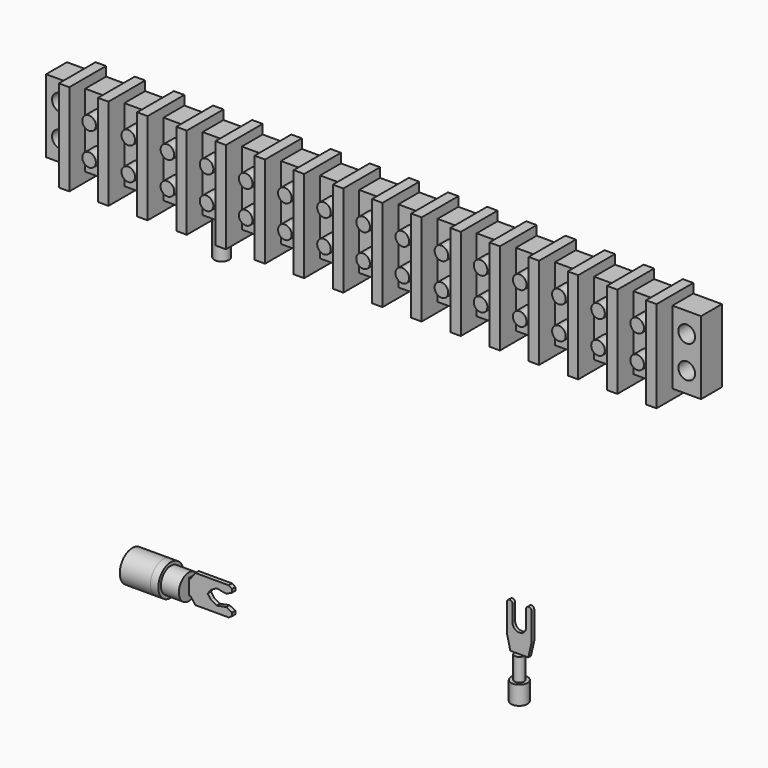
from build123d import *

# Parameters (mm, degrees)
F2_DEPTH      = 1.016
F3_R          = 3.0708545833
F4_DEPTH      = 6.2992
F5_R          = 3.8366124345
F6_DEPTH      = 1.905
F6_DEPTH_BACK = 7.4676
F0_W          = 6.9684078468
F0_H          = 17.78
F0_R          = 2.032
F0_W_2        = 6.9824227593
F7_DEPTH      = 6.35
F8_DEPTH      = 11.176
F10_DEPTH     = 0.8128
F11_R         = 1.1557
F12_DEPTH     = 5.5118
F13_R         = 2.0066
F14_DEPTH     = 4.5212
F15_R         = 1.651
F16_DEPTH     = 3.175
F17_R         = 0.9525
F18_DEPTH     = 11.938
F19_R         = 2.159
F20_DEPTH     = 10.922
F21_R         = 0.889
F22_DEPTH     = 6.604
F23_R         = 1.7907
F24_DEPTH     = 13.9446


with BuildPart() as f2:
    # F1 (on Front) → F2 (new body)
    with BuildSketch(Plane.XZ):
        Polygon((-4.9059162848, -72.9100778699), (-11.6111291572, -72.9100778699), (-11.6111291572, -76.6700133681), (-4.9059162848, -76.6700133681), (-3.7779365666, -78.2366544008), (4.3685836717, -78.2366544008), (5.162417423, -77.7229978188), (5.162417423, -76.9071877003), (3.7609902211, -76.2163475156), (1.4121197164, -76.6505897045), (0, -75.8215785027), (-0.769990962, -74.790045619), (0, -73.7585127354), (1.4121197164, -72.9295015335), (3.7609902211, -73.3637437224), (5.162417423, -72.6729035378), (5.162417423, -71.8570934192), (4.3685836717, -71.3434368372), (-3.7779365666, -71.3434368372), align=None)
    extrude(amount=F2_DEPTH)

    # F3 (on face) → F4 (join)
    with BuildSketch(Plane(origin=(-11.6111291572, 0, 0), x_dir=(0, -1, 0), z_dir=(-1, 0, 0))):
        with Locations((1.016, -74.790045619)):
            Circle(F3_R)
    extrude(amount=-F4_DEPTH)

    # F5 (on face) → F6 (join, two sides)
    with BuildSketch(Plane(origin=(-11.6111291572, 0, 0), x_dir=(0, -1, 0), z_dir=(-1, 0, 0))) as f6_sk:
        with Locations((1.016, -74.790045619)):
            Circle(F5_R)
    extrude(amount=-F6_DEPTH)
    extrude(f6_sk.sketch, amount=F6_DEPTH_BACK)


with BuildPart() as f7:
    # F0 (on Front) → F7 (new body)
    with BuildSketch(Plane.XZ):
        with Locations((-32.3240486905, 18.3345344849)):
            Rectangle(F0_W, F0_H)
        with Locations((-32.3240486905, 14.3975344849)):
            Circle(F0_R, mode=Mode.SUBTRACT)
        with Locations((-32.3240486905, 22.2715344849)):
            Circle(F0_R, mode=Mode.SUBTRACT)
        Polygon((-28.8398447671, 29.4970404357), (-28.8398447671, 27.2245344849), (-28.8398447671, 9.4445344849), (-28.8398447671, 7.1720285341), (-26.2972675264, 7.1720285341), (-26.2972675264, 9.4445344849), (-26.2972675264, 27.2245344849), (-26.2972675264, 29.4970404357), align=None)
        with Locations((-22.8060561467, 18.3345344849)):
            Rectangle(F0_W_2, F0_H)
        Polygon((-19.3148447671, 29.4970404357), (-19.3148447671, 27.2245344849), (-19.3148447671, 9.4445344849), (-19.3148447671, 7.1720285341), (-16.7722675264, 7.1720285341), (-16.7722675264, 9.4445344849), (-16.7722675264, 27.2245344849), (-16.7722675264, 29.4970404357), align=None)
        with Locations((-13.2810561467, 18.3345344849)):
            Rectangle(F0_W_2, F0_H)
        Polygon((-9.7898447671, 29.4970404357), (-9.7898447671, 27.2245344849), (-9.7898447671, 9.4445344849), (-9.7898447671, 7.1720285341), (-7.2472675264, 7.1720285341), (-7.2472675264, 9.4445344849), (-7.2472675264, 27.2245344849), (-7.2472675264, 29.4970404357), align=None)
        with Locations((-3.7560561467, 18.3345344849)):
            Rectangle(F0_W_2, F0_H)
        Polygon((-0.2648447671, 29.4970404357), (-0.2648447671, 27.2245344849), (-0.2648447671, 9.4445344849), (-0.2648447671, 7.1720285341), (2.2777324736, 7.1720285341), (2.2777324736, 9.4445344849), (2.2777324736, 27.2245344849), (2.2777324736, 29.4970404357), align=None)
        with Locations((5.7689438533, 18.3345344849)):
            Rectangle(F0_W_2, F0_H)
        Polygon((9.2601552329, 29.4970404357), (9.2601552329, 27.2245344849), (9.2601552329, 9.4445344849), (9.2601552329, 7.1720285341), (11.8027324736, 7.1720285341), (11.8027324736, 9.4445344849), (11.8027324736, 27.2245344849), (11.8027324736, 29.4970404357), align=None)
        with Locations((15.2939438533, 18.3345344849)):
            Rectangle(F0_W_2, F0_H)
        Polygon((18.7851552329, 29.4970404357), (18.7851552329, 27.2245344849), (18.7851552329, 9.4445344849), (18.7851552329, 7.1720285341), (21.3277324736, 7.1720285341), (21.3277324736, 9.4445344849), (21.3277324736, 27.2245344849), (21.3277324736, 29.4970404357), align=None)
        with Locations((24.8189438533, 18.3345344849)):
            Rectangle(F0_W_2, F0_H)
        Polygon((28.3101552329, 29.4970404357), (28.3101552329, 27.2245344849), (28.3101552329, 9.4445344849), (28.3101552329, 7.1720285341), (30.8527324736, 7.1720285341), (30.8527324736, 9.4445344849), (30.8527324736, 27.2245344849), (30.8527324736, 29.4970404357), align=None)
        with Locations((34.3439438533, 18.3345344849)):
            Rectangle(F0_W_2, F0_H)
        Polygon((37.8351552329, 29.4970404357), (37.8351552329, 27.2245344849), (37.8351552329, 9.4445344849), (37.8351552329, 7.1720285341), (40.3777324736, 7.1720285341), (40.3777324736, 9.4445344849), (40.3777324736, 27.2245344849), (40.3777324736, 29.4970404357), align=None)
        with Locations((43.8689438533, 18.3345344849)):
            Rectangle(F0_W_2, F0_H)
        Polygon((47.3601552329, 29.4970404357), (47.3601552329, 27.2245344849), (47.3601552329, 9.4445344849), (47.3601552329, 7.1720285341), (49.9027324736, 7.1720285341), (49.9027324736, 9.4445344849), (49.9027324736, 27.2245344849), (49.9027324736, 29.4970404357), align=None)
        with Locations((53.3939438533, 18.3345344849)):
            Rectangle(F0_W_2, F0_H)
        Polygon((56.8851552329, 29.4970404357), (56.8851552329, 27.2245344849), (56.8851552329, 9.4445344849), (56.8851552329, 7.1720285341), (59.4277324736, 7.1720285341), (59.4277324736, 9.4445344849), (59.4277324736, 27.2245344849), (59.4277324736, 29.4970404357), align=None)
        with Locations((62.9189438533, 18.3345344849)):
            Rectangle(F0_W_2, F0_H)
        Polygon((66.4101552329, 29.4970404357), (66.4101552329, 27.2245344849), (66.4101552329, 9.4445344849), (66.4101552329, 7.1720285341), (68.9527324736, 7.1720285341), (68.9527324736, 9.4445344849), (68.9527324736, 27.2245344849), (68.9527324736, 29.4970404357), align=None)
        with Locations((72.4439438533, 18.3345344849)):
            Rectangle(F0_W_2, F0_H)
        Polygon((75.9351552329, 29.4970404357), (75.9351552329, 27.2245344849), (75.9351552329, 9.4445344849), (75.9351552329, 7.1720285341), (78.4777324736, 7.1720285341), (78.4777324736, 9.4445344849), (78.4777324736, 27.2245344849), (78.4777324736, 29.4970404357), align=None)
        with Locations((81.9689438533, 18.3345344849)):
            Rectangle(F0_W_2, F0_H)
        Polygon((85.4601552329, 29.4970404357), (85.4601552329, 27.2245344849), (85.4601552329, 9.4445344849), (85.4601552329, 7.1720285341), (88.0027324736, 7.1720285341), (88.0027324736, 9.4445344849), (88.0027324736, 27.2245344849), (88.0027324736, 29.4970404357), align=None)
        with Locations((91.4939438533, 18.3345344849)):
            Rectangle(F0_W_2, F0_H)
        Polygon((94.9851552329, 29.4970404357), (94.9851552329, 27.2245344849), (94.9851552329, 9.4445344849), (94.9851552329, 7.1720285341), (97.5277324736, 7.1720285341), (97.5277324736, 9.4445344849), (97.5277324736, 27.2245344849), (97.5277324736, 29.4970404357), align=None)
        with Locations((101.0189438533, 18.3345344849)):
            Rectangle(F0_W_2, F0_H)
        Polygon((104.5101552329, 29.4970404357), (104.5101552329, 27.2245344849), (104.5101552329, 9.4445344849), (104.5101552329, 7.1720285341), (107.0527324736, 7.1720285341), (107.0527324736, 9.4445344849), (107.0527324736, 27.2245344849), (107.0527324736, 29.4970404357), align=None)
        with Locations((110.5439438533, 18.3345344849)):
            Rectangle(F0_W_2, F0_H)
        Polygon((114.0351552329, 29.4970404357), (114.0351552329, 27.2245344849), (114.0351552329, 9.4445344849), (114.0351552329, 7.1720285341), (116.5777324736, 7.1720285341), (116.5777324736, 9.4445344849), (116.5777324736, 27.2245344849), (116.5777324736, 29.4970404357), align=None)
        with Locations((120.061936397, 18.3345344849)):
            Rectangle(F0_W, F0_H)
        with Locations((120.061936397, 14.3975344849)):
            Circle(F0_R, mode=Mode.SUBTRACT)
        with Locations((120.061936397, 22.2715344849)):
            Circle(F0_R, mode=Mode.SUBTRACT)
    extrude(amount=F7_DEPTH)

    # F0 (on Front) → F8 (join)
    with BuildSketch(Plane.XZ):
        Polygon((-28.8398447671, 29.4970404357), (-28.8398447671, 27.2245344849), (-28.8398447671, 9.4445344849), (-28.8398447671, 7.1720285341), (-26.2972675264, 7.1720285341), (-26.2972675264, 9.4445344849), (-26.2972675264, 27.2245344849), (-26.2972675264, 29.4970404357), align=None)
        Polygon((-19.3148447671, 29.4970404357), (-19.3148447671, 27.2245344849), (-19.3148447671, 9.4445344849), (-19.3148447671, 7.1720285341), (-16.7722675264, 7.1720285341), (-16.7722675264, 9.4445344849), (-16.7722675264, 27.2245344849), (-16.7722675264, 29.4970404357), align=None)
        Polygon((-9.7898447671, 29.4970404357), (-9.7898447671, 27.2245344849), (-9.7898447671, 9.4445344849), (-9.7898447671, 7.1720285341), (-7.2472675264, 7.1720285341), (-7.2472675264, 9.4445344849), (-7.2472675264, 27.2245344849), (-7.2472675264, 29.4970404357), align=None)
        Polygon((-0.2648447671, 29.4970404357), (-0.2648447671, 27.2245344849), (-0.2648447671, 9.4445344849), (-0.2648447671, 7.1720285341), (2.2777324736, 7.1720285341), (2.2777324736, 9.4445344849), (2.2777324736, 27.2245344849), (2.2777324736, 29.4970404357), align=None)
        Polygon((9.2601552329, 29.4970404357), (9.2601552329, 27.2245344849), (9.2601552329, 9.4445344849), (9.2601552329, 7.1720285341), (11.8027324736, 7.1720285341), (11.8027324736, 9.4445344849), (11.8027324736, 27.2245344849), (11.8027324736, 29.4970404357), align=None)
        Polygon((18.7851552329, 29.4970404357), (18.7851552329, 27.2245344849), (18.7851552329, 9.4445344849), (18.7851552329, 7.1720285341), (21.3277324736, 7.1720285341), (21.3277324736, 9.4445344849), (21.3277324736, 27.2245344849), (21.3277324736, 29.4970404357), align=None)
        Polygon((28.3101552329, 29.4970404357), (28.3101552329, 27.2245344849), (28.3101552329, 9.4445344849), (28.3101552329, 7.1720285341), (30.8527324736, 7.1720285341), (30.8527324736, 9.4445344849), (30.8527324736, 27.2245344849), (30.8527324736, 29.4970404357), align=None)
        Polygon((37.8351552329, 29.4970404357), (37.8351552329, 27.2245344849), (37.8351552329, 9.4445344849), (37.8351552329, 7.1720285341), (40.3777324736, 7.1720285341), (40.3777324736, 9.4445344849), (40.3777324736, 27.2245344849), (40.3777324736, 29.4970404357), align=None)
        Polygon((47.3601552329, 29.4970404357), (47.3601552329, 27.2245344849), (47.3601552329, 9.4445344849), (47.3601552329, 7.1720285341), (49.9027324736, 7.1720285341), (49.9027324736, 9.4445344849), (49.9027324736, 27.2245344849), (49.9027324736, 29.4970404357), align=None)
        Polygon((56.8851552329, 29.4970404357), (56.8851552329, 27.2245344849), (56.8851552329, 9.4445344849), (56.8851552329, 7.1720285341), (59.4277324736, 7.1720285341), (59.4277324736, 9.4445344849), (59.4277324736, 27.2245344849), (59.4277324736, 29.4970404357), align=None)
        Polygon((66.4101552329, 29.4970404357), (66.4101552329, 27.2245344849), (66.4101552329, 9.4445344849), (66.4101552329, 7.1720285341), (68.9527324736, 7.1720285341), (68.9527324736, 9.4445344849), (68.9527324736, 27.2245344849), (68.9527324736, 29.4970404357), align=None)
        Polygon((75.9351552329, 29.4970404357), (75.9351552329, 27.2245344849), (75.9351552329, 9.4445344849), (75.9351552329, 7.1720285341), (78.4777324736, 7.1720285341), (78.4777324736, 9.4445344849), (78.4777324736, 27.2245344849), (78.4777324736, 29.4970404357), align=None)
        Polygon((85.4601552329, 29.4970404357), (85.4601552329, 27.2245344849), (85.4601552329, 9.4445344849), (85.4601552329, 7.1720285341), (88.0027324736, 7.1720285341), (88.0027324736, 9.4445344849), (88.0027324736, 27.2245344849), (88.0027324736, 29.4970404357), align=None)
        Polygon((94.9851552329, 29.4970404357), (94.9851552329, 27.2245344849), (94.9851552329, 9.4445344849), (94.9851552329, 7.1720285341), (97.5277324736, 7.1720285341), (97.5277324736, 9.4445344849), (97.5277324736, 27.2245344849), (97.5277324736, 29.4970404357), align=None)
        Polygon((104.5101552329, 29.4970404357), (104.5101552329, 27.2245344849), (104.5101552329, 9.4445344849), (104.5101552329, 7.1720285341), (107.0527324736, 7.1720285341), (107.0527324736, 9.4445344849), (107.0527324736, 27.2245344849), (107.0527324736, 29.4970404357), align=None)
        Polygon((114.0351552329, 29.4970404357), (114.0351552329, 27.2245344849), (114.0351552329, 9.4445344849), (114.0351552329, 7.1720285341), (116.5777324736, 7.1720285341), (116.5777324736, 9.4445344849), (116.5777324736, 27.2245344849), (116.5777324736, 29.4970404357), align=None)
    extrude(amount=F8_DEPTH)

    # F15 (on face) → F16 (join)
    with BuildSketch(Plane.XZ.offset(6.35)):
        with Locations((-22.8060561467, 22.2715344849)):
            Circle(F15_R)
        with Locations((-22.8060561467, 14.3975344849)):
            Circle(F15_R)
        with Locations((-13.2810561467, 22.2715344849)):
            Circle(F15_R)
        with Locations((-13.2810561467, 14.3975344849)):
            Circle(F15_R)
        with Locations((-3.7560561467, 22.2715344849)):
            Circle(F15_R)
        with Locations((-3.7560561467, 14.3975344849)):
            Circle(F15_R)
        with Locations((5.7689438533, 22.2715344849)):
            Circle(F15_R)
        with Locations((5.7689438533, 14.3975344849)):
            Circle(F15_R)
        with Locations((15.2939438533, 22.2715344849)):
            Circle(F15_R)
        with Locations((15.2939438533, 14.3975344849)):
            Circle(F15_R)
        with Locations((24.8189438533, 22.2715344849)):
            Circle(F15_R)
        with Locations((24.8189438533, 14.3975344849)):
            Circle(F15_R)
        with Locations((34.3439438533, 22.2715344849)):
            Circle(F15_R)
        with Locations((34.3439438533, 14.3975344849)):
            Circle(F15_R)
        with Locations((43.8689438533, 22.2715344849)):
            Circle(F15_R)
        with Locations((43.8689438533, 14.3975344849)):
            Circle(F15_R)
        with Locations((53.3939438533, 22.2715344849)):
            Circle(F15_R)
        with Locations((53.3939438533, 14.3975344849)):
            Circle(F15_R)
        with Locations((62.9189438533, 22.2715344849)):
            Circle(F15_R)
        with Locations((62.9189438533, 14.3975344849)):
            Circle(F15_R)
        with Locations((72.4439438533, 22.2715344849)):
            Circle(F15_R)
        with Locations((72.4439438533, 14.3975344849)):
            Circle(F15_R)
        with Locations((81.9689438533, 22.2715344849)):
            Circle(F15_R)
        with Locations((81.9689438533, 14.3975344849)):
            Circle(F15_R)
        with Locations((91.4939438533, 22.2715344849)):
            Circle(F15_R)
        with Locations((91.4939438533, 14.3975344849)):
            Circle(F15_R)
        with Locations((101.0189438533, 22.2715344849)):
            Circle(F15_R)
        with Locations((101.0189438533, 14.3975344849)):
            Circle(F15_R)
        with Locations((110.5439438533, 22.2715344849)):
            Circle(F15_R)
        with Locations((110.5439438533, 14.3975344849)):
            Circle(F15_R)
    extrude(amount=F16_DEPTH)


with BuildPart() as f10:
    # F9 (on Front) → F10 (new body)
    with BuildSketch(Plane.XZ):
        with BuildLine():
            ThreePointArc((73.248245285, -53.0293621123), (72.575145285, -52.3562621123), (71.902045285, -53.0293621123))
            Line((71.902045285, -53.0293621123), (71.902045285, -59.7646781043))
            Line((71.902045285, -59.7646781043), (72.7130512228, -63.235707581))
            Line((72.7130512228, -63.235707581), (74.899245285, -63.235707581))
            Line((74.899245285, -63.235707581), (77.0854393473, -63.235707581))
            Line((77.0854393473, -63.235707581), (77.896445285, -59.7646781043))
            Line((77.896445285, -59.7646781043), (77.896445285, -53.0293621123))
            ThreePointArc((77.896445285, -53.0293621123), (77.223345285, -52.3562621123), (76.550245285, -53.0293621123))
            Line((76.550245285, -53.0293621123), (76.550245285, -56.969165802))
            ThreePointArc((76.550245285, -56.969165802), (74.899245285, -58.620165802), (73.248245285, -56.969165802))
            Line((73.248245285, -56.969165802), (73.248245285, -53.0293621123))
        make_face()
    extrude(amount=F10_DEPTH)

    # F11 (on face) → F12 (join)
    with BuildSketch(Plane(origin=(0, 0, -63.235707581), x_dir=(1, 0, 0), z_dir=(0, 0, -1))):
        with Locations((74.899245285, 0.8128)):
            Circle(F11_R)
    extrude(amount=F12_DEPTH)

    # F13 (on face) → F14 (join)
    with BuildSketch(Plane(origin=(0, 0, -68.747507581), x_dir=(1, 0, 0), z_dir=(0, 0, -1))):
        with Locations((74.899245285, 0.8128)):
            Circle(F13_R)
    extrude(amount=F14_DEPTH)


with BuildPart() as f18:
    # F17 (on Top) → F18 (new body)
    with BuildSketch(Plane.XY):
        with Locations((35.4050472379, 21.641895175)):
            Circle(F17_R)
    extrude(amount=F18_DEPTH)

    # F19 (on face) → F20 (join)
    with BuildSketch(Plane(origin=(0, 0, 0), x_dir=(1, 0, 0), z_dir=(0, 0, -1))):
        with Locations((35.4050472379, -21.641895175)):
            Circle(F19_R)
    extrude(amount=F20_DEPTH)


with BuildPart() as f22:
    # F21 (on Top) → F22 (new body)
    with BuildSketch(Plane.XY):
        with Locations((-12.1247144416, 17.4454189837)):
            Circle(F21_R)
    extrude(amount=F22_DEPTH)

    # F23 (on face) → F24 (join)
    with BuildSketch(Plane(origin=(0, 0, 0), x_dir=(1, 0, 0), z_dir=(0, 0, -1))):
        with Locations((-12.1247144416, -17.4454189837)):
            Circle(F23_R)
    extrude(amount=F24_DEPTH)


solid = Compound([f2.part, f7.part, f10.part, f18.part, f22.part])
